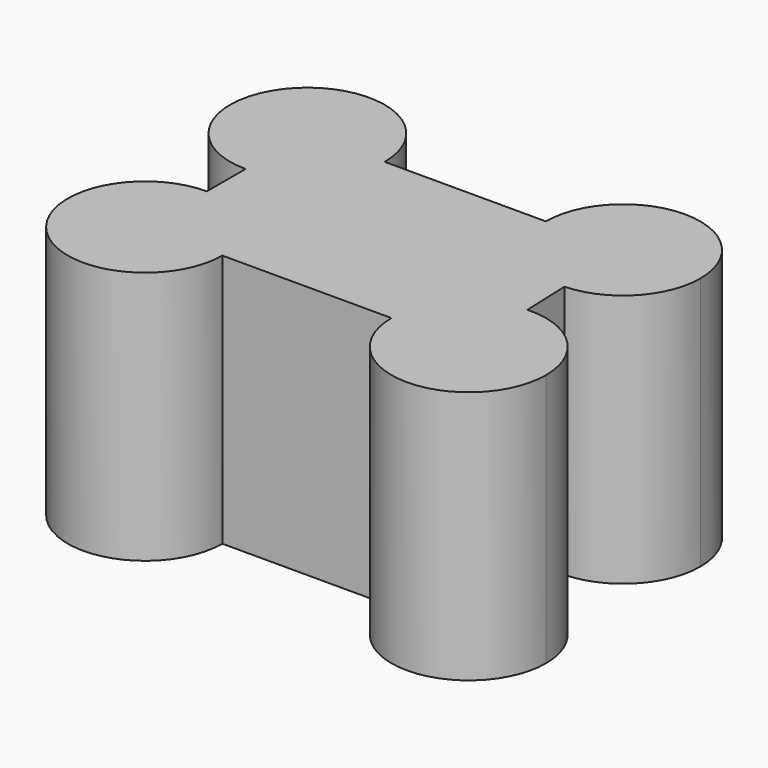
from build123d import *

# Parameters (mm, degrees)
F1_DEPTH = 25


with BuildPart() as f1:
    # F0 (on Top) → F1 (new body)
    with BuildSketch(Plane.XY):
        with BuildLine():
            Line((0, 12.385), (0, 20))
            Line((0, 20), (7.615, 20))
            ThreePointArc((7.615, 20), (-5.3846181387, 25.3846181387), (0, 12.385))
        make_face()
        with BuildLine():
            Line((7.615, 20), (0, 20))
            Line((0, 20), (0, 12.385))
            ThreePointArc((0, 12.385), (5.3846181387, 14.6153818613), (7.615, 20))
        make_face()
        with BuildLine():
            Line((23.495, 20), (7.615, 20))
            ThreePointArc((7.615, 20), (5.3846181387, 14.6153818613), (0, 12.385))
            Line((0, 12.385), (0, 7.615))
            ThreePointArc((0, 7.615), (5.3846181387, 5.3846181387), (7.615, 0))
            Line((7.615, 0), (24.285, 0))
            ThreePointArc((24.285, 0), (26.4101468566, 5.2772850467), (31.5994418815, 7.6090662908))
            Line((31.5994418815, 7.6090662908), (31.4105581185, 12.3909337092))
            ThreePointArc((31.4105581185, 12.3909337092), (25.8327149533, 14.5101468566), (23.495, 20))
        make_face()
        with BuildLine():
            ThreePointArc((38.725, 20), (31.11, 27.615), (23.495, 20))
            Line((23.495, 20), (31.11, 20))
            Line((31.11, 20), (31.4105581185, 12.3909337092))
            ThreePointArc((31.4105581185, 12.3909337092), (36.5998531434, 14.7227149533), (38.725, 20))
        make_face()
        with BuildLine():
            Line((31.11, 20), (23.495, 20))
            ThreePointArc((23.495, 20), (25.8327149533, 14.5101468566), (31.4105581185, 12.3909337092))
            Line((31.4105581185, 12.3909337092), (31.11, 20))
        make_face()
        with BuildLine():
            ThreePointArc((7.615, 0), (5.3846181387, 5.3846181387), (0, 7.615))
            Line((0, 7.615), (0, 0))
            Line((0, 0), (7.615, 0))
        make_face()
        with BuildLine():
            Line((0, 0), (0, 7.615))
            ThreePointArc((0, 7.615), (-5.3846181387, -5.3846181387), (7.615, 0))
            Line((7.615, 0), (0, 0))
        make_face()
        with BuildLine():
            ThreePointArc((39.515, 0), (37.1772850467, 5.4898531434), (31.5994418815, 7.6090662908))
            Line((31.5994418815, 7.6090662908), (31.9, 0))
            Line((31.9, 0), (24.285, 0))
            ThreePointArc((24.285, 0), (31.9, -7.615), (39.515, 0))
        make_face()
        with BuildLine():
            Line((31.9, 0), (31.5994418815, 7.6090662908))
            ThreePointArc((31.5994418815, 7.6090662908), (26.4101468566, 5.2772850467), (24.285, 0))
            Line((24.285, 0), (31.9, 0))
        make_face()
    extrude(amount=F1_DEPTH)


solid = f1.part
